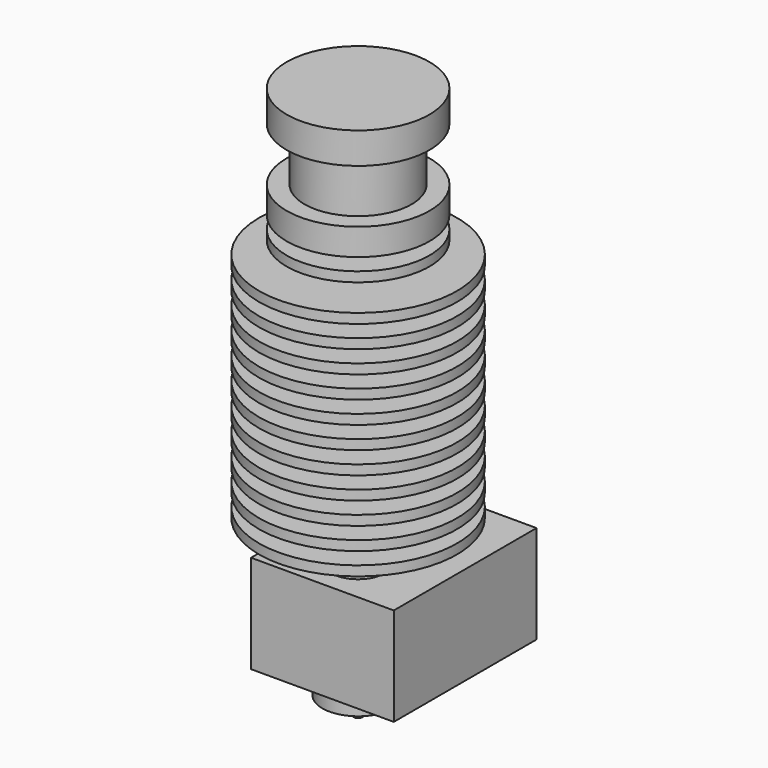
from build123d import *

# Parameters (mm, degrees)
F2_W          = 16
F2_H          = 11
F3_DEPTH      = 5
F3_DEPTH_BACK = 15


with BuildPart() as f1:
    # F0 (on Front) → F1 (revolve)
    with BuildSketch(Plane.XZ):
        Polygon((0, -36.936364), (0, -17.436364), (-1.5, -17.436364), (-1.5, -19.436364), (-3, -19.436364), (-3, -32.936364), (-4, -32.936364), (-4, -34.936364), (-2.5, -34.936364), (-0.5, -36.936364), align=None)
        Polygon((0, -17.436364), (0, 24.954545), (-8, 24.954545), (-8, 21.454545), (-6, 21.454545), (-6, 15.454545), (-8, 15.454545), (-8, 12.454545), (-5, 12.454545), (-5, 11.054545), (-8, 11.054545), (-8, 9.963636), (-5, 9.963636), (-5, 8.563636), (-11.1, 8.563636), (-11.1, 7.472727), (-5, 7.472727), (-5, 6.072727), (-11.1, 6.072727), (-11.1, 4.981818), (-5, 4.981818), (-5, 3.581818), (-11.1, 3.581818), (-11.1, 2.490909), (-5, 2.490909), (-5, 1.090909), (-11.1, 1.090909), (-11.1, 0), (-5, 0), (-5, -1.4), (-11.1, -1.4), (-11.1, -2.490909), (-5, -2.490909), (-5, -3.890909), (-11.1, -3.890909), (-11.1, -4.981818), (-5, -4.981818), (-5, -6.381818), (-11.1, -6.381818), (-11.1, -7.472727), (-5, -7.472727), (-5, -8.872727), (-11.1, -8.872727), (-11.1, -9.963636), (-5, -9.963636), (-5, -11.363636), (-11.1, -11.363636), (-11.1, -12.454545), (-5, -12.454545), (-5, -13.854545), (-11.1, -13.854545), (-11.1, -14.945455), (-5, -14.945455), (-5, -16.345455), (-11.1, -16.345455), (-11.1, -17.436364), (-1.5, -17.436364), align=None)
    revolve(axis=Axis((0, 0, -0.338393), (0, 0, -1)))

    # F2 (on Front) → F3 (join, two sides)
    with BuildSketch(Plane.XZ) as f3_sk:
        with Locations((0, -27.436364)):
            Rectangle(F2_W, F2_H)
    extrude(amount=F3_DEPTH)
    extrude(f3_sk.sketch, amount=-F3_DEPTH_BACK)


solid = f1.part
